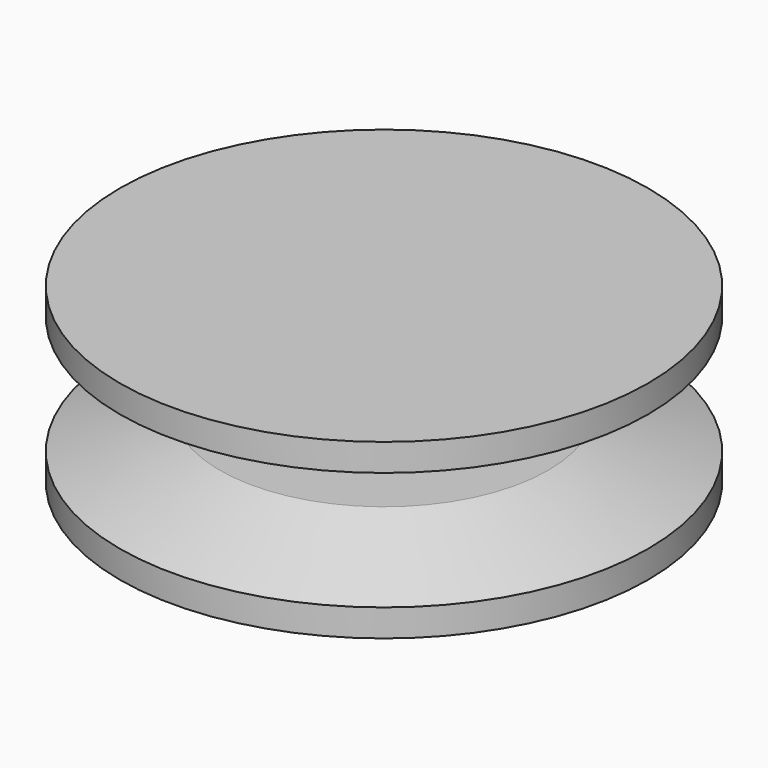
from build123d import *

# Parameters (mm, degrees)
F0_W = 29.0068
F0_H = 3


with BuildPart() as f1:
    # F0 (on Front) → F1 (revolve)
    with BuildSketch(Plane.XZ):
        with Locations((14.5034, 6.726993)):
            Rectangle(F0_W, F0_H)
        with Locations((14.5034, -9.273007)):
            Rectangle(F0_W, F0_H)
        Polygon((18.01689, -3.773007), (0, -3.773007), (0, -7.773007), (29.0068, -7.773007), align=None)
        Polygon((29.0068, 5.226993), (0, 5.226993), (0, 1.226993), (18.01689, 1.226993), align=None)
    revolve(axis=Axis((0, 0, 18.431734), (0, 0, -1)))


solid = f1.part
